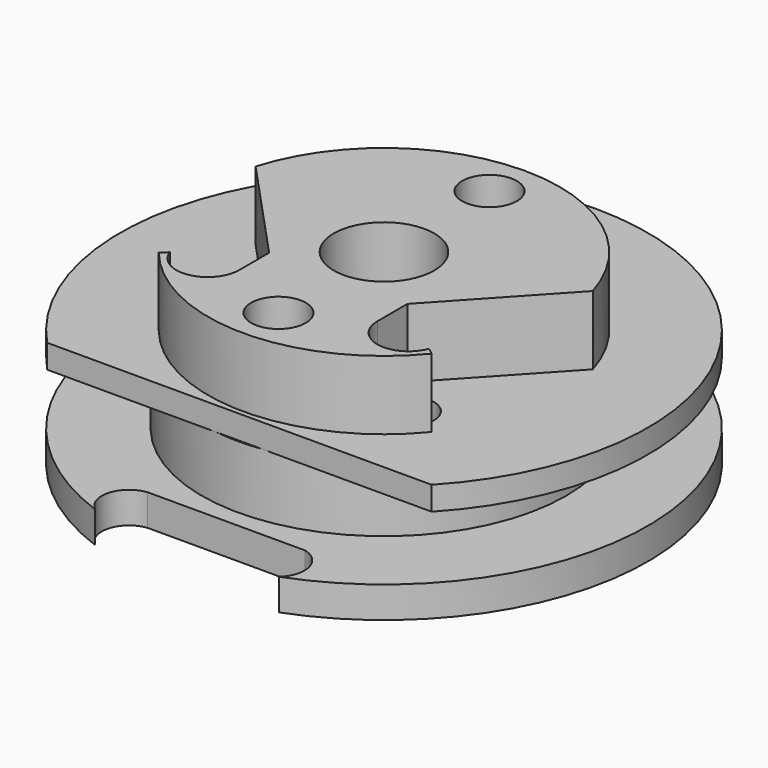
from build123d import *

# Parameters (mm, degrees)
F1_DEPTH  = 3.9624
F2_R      = 23.0251
F3_DEPTH  = 7.9248
F5_DEPTH  = 2.9972
F6_R      = 6.35
F6_R_2    = 3.453465
F6_R_3    = 3.458119
F7_DEPTH  = 8.7122
F8_R      = 6.35
F9_DEPTH  = 23.5976
F10_R     = 3.175
F11_DEPTH = 14.8854


with BuildPart() as f1:
    # F0 (on Top) → F1 (new body)
    with BuildSketch(Plane.XY):
        with BuildLine():
            Line((-8.962085, -25.2095), (0, -25.2095))
            Line((0, -25.2095), (10.198205, -25.2095))
            ThreePointArc((10.198205, -25.2095), (12.737725, -27.767632), (11.69605, -31.218445))
            ThreePointArc((11.69605, -31.218445), (-0.134135, 33.33723), (-11.444457, -31.311552))
            ThreePointArc((-11.444457, -31.311552), (-12.615628, -27.667498), (-9.681515, -25.2095))
            Line((-9.681515, -25.2095), (-8.962085, -25.2095))
        make_face()
    extrude(amount=F1_DEPTH)

    # F2 (on face) → F3 (join)
    with BuildSketch(Plane.XY.offset(3.9624)):
        Circle(F2_R)
    extrude(amount=F3_DEPTH)

    # F4 (on face) → F5 (join)
    with BuildSketch(Plane.XY.offset(11.8872)):
        with BuildLine():
            Line((-24.286461, -22.84014), (24.286461, -22.84014))
            ThreePointArc((24.286461, -22.84014), (0, 33.339229), (-24.286461, -22.84014))
        make_face()
    extrude(amount=F5_DEPTH)

    # F6 (on face) → F7 (join)
    with BuildSketch(Plane.XY.offset(14.8844)):
        Circle(F6_R)
        with BuildLine():
            Line((8.7376, -7.221702), (21.298547, 6.35))
            ThreePointArc((21.298547, 6.35), (0, 22.225), (-21.298547, 6.35))
            Line((-21.298547, 6.35), (-8.7376, -7.221702))
            Line((-8.7376, -7.221702), (-8.7376, -11.966851))
            ThreePointArc((-8.7376, -11.966851), (-12.057279, -15.876777), (-16.453895, -13.23527))
            Line((-16.453895, -13.23527), (-17.271447, -13.987414))
            ThreePointArc((-17.271447, -13.987414), (-0.024306, -22.224987), (17.240811, -14.025158))
            Line((17.240811, -14.025158), (16.397809, -13.390516))
            ThreePointArc((16.397809, -13.390516), (11.975978, -15.862542), (8.7376, -11.966851))
            Line((8.7376, -11.966851), (8.7376, -7.221702))
        make_face()
        with Locations((0, -16.6624)):
            Circle(F6_R_2, mode=Mode.SUBTRACT)
        Circle(F6_R, mode=Mode.SUBTRACT)
        with Locations((0, 16.6624)):
            Circle(F6_R_3, mode=Mode.SUBTRACT)
    extrude(amount=F7_DEPTH)

    # F8 (on face) → F9 (cut, through all)
    with BuildSketch(Plane.XY.offset(23.5966)):
        Circle(F8_R)
    extrude(amount=-F9_DEPTH, mode=Mode.SUBTRACT)

    # F10 (on face) → F11 (cut, through all)
    with BuildSketch(Plane.XY.offset(14.8844)):
        with Locations((-12.7, -11.966851)):
            Circle(F10_R)
        with Locations((12.7, -11.966851)):
            Circle(F10_R)
    extrude(amount=-F11_DEPTH, mode=Mode.SUBTRACT)


solid = f1.part
